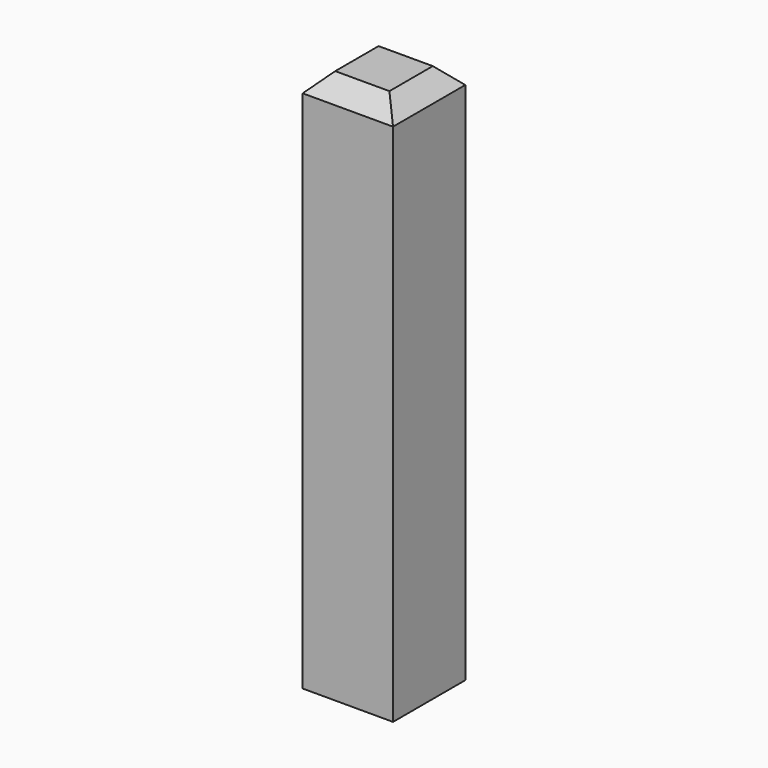
from build123d import *

# Parameters (mm, degrees)
F0_W     = 25.4
F0_H     = 25.4
F1_DEPTH = 152.4
F2_SIZE  = 5.08


with BuildPart() as f1:
    # F0 (on Top) → F1 (new body)
    with BuildSketch(Plane.XY):
        Rectangle(F0_W, F0_H)
    extrude(amount=F1_DEPTH)

    # F2
    f2_edges = [f1.edges().sort_by_distance(p)[0] for p in [
        (-12.7, 0, 152.4),
        (0, 12.7, 152.4),
        (12.7, 0, 152.4),
        (0, -12.7, 152.4),
    ]]
    chamfer(f2_edges, length=F2_SIZE)


solid = f1.part
